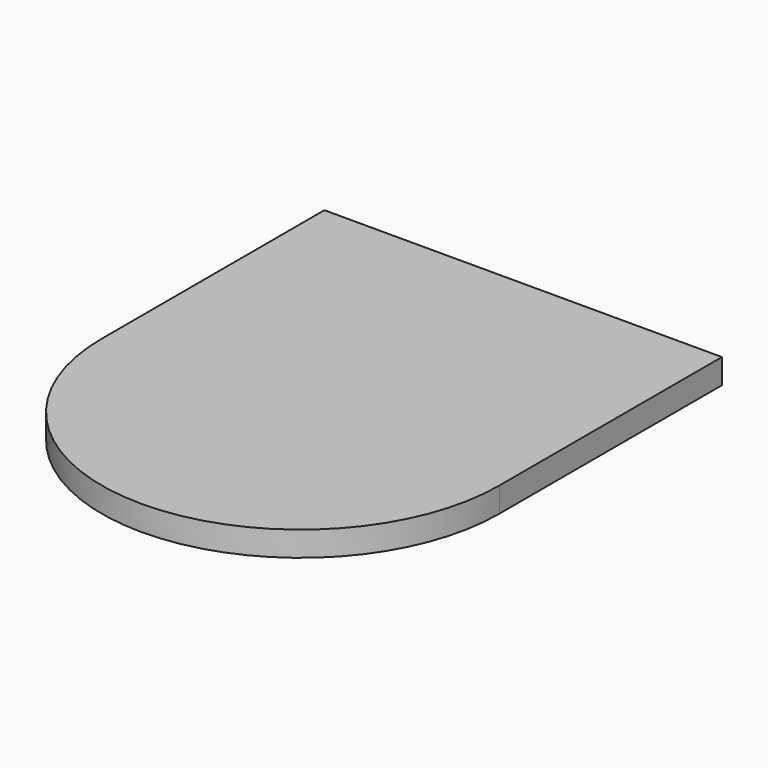
from build123d import *

# Parameters (mm, degrees)
F1_DEPTH = 3.175


with BuildPart() as f1:
    # F0 (on Top) → F1 (new body)
    with BuildSketch(Plane.XY):
        with BuildLine():
            ThreePointArc((-25.4, 0), (-17.9605122421, 17.9605122421), (0, 25.4))
            Line((0, 25.4), (0, 35.56))
            Line((0, 35.56), (-25.4, 35.56))
            Line((-25.4, 35.56), (-25.4, 0))
        make_face()
        with BuildLine():
            Line((0, 35.56), (0, 25.4))
            ThreePointArc((0, 25.4), (17.9605122421, 17.9605122421), (25.4, 0))
            Line((25.4, 0), (25.4, 35.56))
            Line((25.4, 35.56), (0, 35.56))
        make_face()
        with BuildLine():
            Line((-25.4, 0), (0, 0))
            Line((0, 0), (0, 25.4))
            ThreePointArc((0, 25.4), (-17.9605122421, 17.9605122421), (-25.4, 0))
        make_face()
        with BuildLine():
            Line((0, 25.4), (0, 0))
            Line((0, 0), (-25.4, 0))
            ThreePointArc((-25.4, 0), (0, -25.4), (25.4, 0))
            ThreePointArc((25.4, 0), (17.9605122421, 17.9605122421), (0, 25.4))
        make_face()
    extrude(amount=F1_DEPTH)


solid = f1.part
